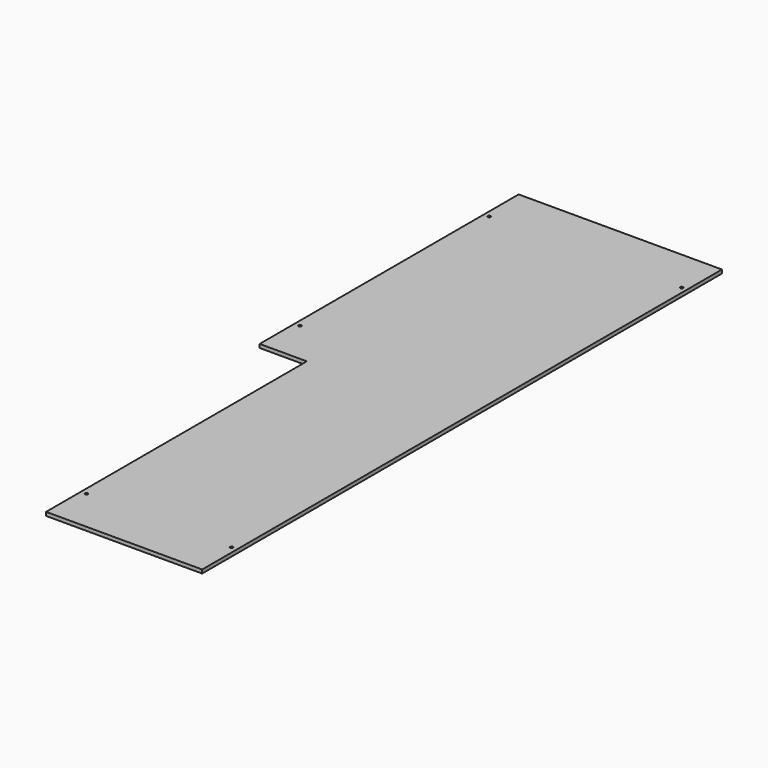
from build123d import *

# Parameters (mm, degrees)
PAD_DEPTH    = 5
SKETCH001_R  = 2
POCKET_DEPTH = 5


with BuildPart() as part:
    # Sketch → Pad (new body)
    with BuildSketch(Plane.XY):
        Polygon((-107.5, 438.5), (107.5, 438.5), (107.5, -456.5), (-107.5, -456.5), (-107.5, -7.5), (-172.5, -7.5), (-172.5, 438.5), align=None)
    extrude(amount=PAD_DEPTH)

    # Sketch001 → Pocket (cut)
    with BuildSketch(Plane.XY.offset(5)):
        with Locations((-165, 378.5)):
            Circle(SKETCH001_R)
        with Locations((-165, 52.5)):
            Circle(SKETCH001_R)
        with Locations((-100, -396.5)):
            Circle(SKETCH001_R)
        with Locations((100, -396.5)):
            Circle(SKETCH001_R)
        with Locations((100, 378.5)):
            Circle(SKETCH001_R)
    extrude(amount=-POCKET_DEPTH, mode=Mode.SUBTRACT)


solid = part.part
